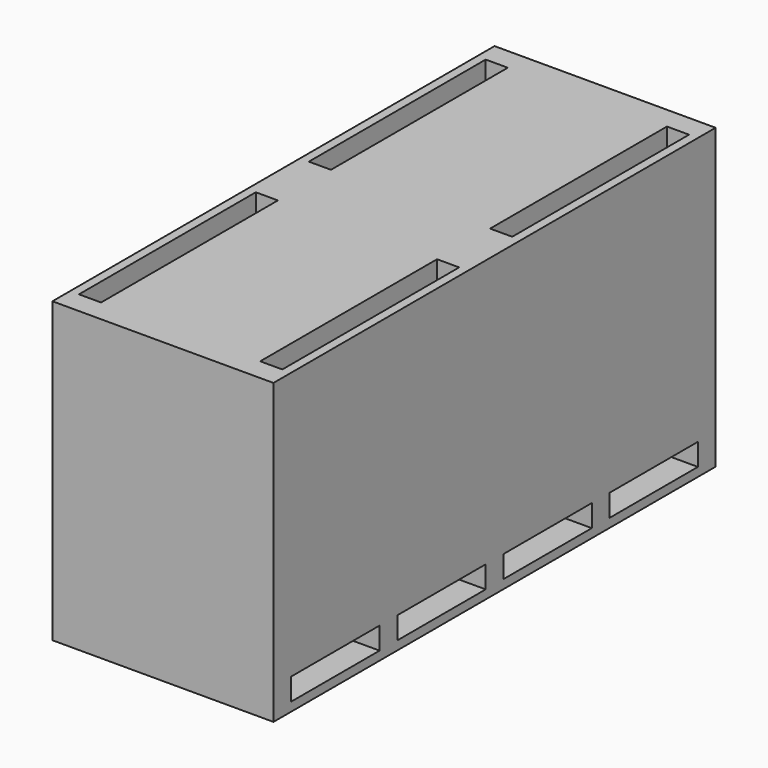
from build123d import *

# Parameters (mm, degrees)
SKETCH003_W            = 20
SKETCH003_H            = 27
PAD001_DEPTH           = 50
SKETCH004_W            = 10
SKETCH004_H            = 2
POCKET002_DEPTH        = 20.001
LINEARPATTERN002_COUNT = 4
LINEARPATTERN002_PITCH = 12
SKETCH005_W            = 2
SKETCH005_H            = 20
POCKET003_DEPTH        = 15
LINEARPATTERN003_COUNT = 2
LINEARPATTERN003_PITCH = 26


with BuildPart() as part:
    # Sketch003 (on ShapeBinder) → Pad001 (new body)
    with BuildSketch(Plane(origin=(0, 0, 0), x_dir=(-1, 0, 0), z_dir=(0, 1, 0))):
        with Locations((-15.8, 19.3)):
            Rectangle(SKETCH003_W, SKETCH003_H)
    extrude(amount=PAD001_DEPTH)

    # Sketch004 (on Face2 of Pad001) → Pocket002 (cut, through all)
    with BuildSketch(Plane(origin=(5.8, 0, 0), x_dir=(0, -1, 0), z_dir=(-1, 0, 0))):
        with Locations((-7, 7.6)):
            Rectangle(SKETCH004_W, SKETCH004_H)
    pocket002 = extrude(amount=-POCKET002_DEPTH, mode=Mode.SUBTRACT)

    # LinearPattern002: Pocket002 ×4
    with Locations(*[(0, i * LINEARPATTERN002_PITCH, 0) for i in range(1, LINEARPATTERN002_COUNT)]):
        add(pocket002, mode=Mode.SUBTRACT)

    # Sketch005 (on Face1 of LinearPattern002) → Pocket003 (cut)
    with BuildSketch(Plane.XY.offset(32.8)):
        with Locations((7.6, 12)):
            Rectangle(SKETCH005_W, SKETCH005_H)
        with Locations((24, 12)):
            Rectangle(SKETCH005_W, SKETCH005_H)
    pocket003 = extrude(amount=-POCKET003_DEPTH, mode=Mode.SUBTRACT)

    # LinearPattern003: Pocket003 ×2
    with Locations(*[(0, i * LINEARPATTERN003_PITCH, 0) for i in range(1, LINEARPATTERN003_COUNT)]):
        add(pocket003, mode=Mode.SUBTRACT)


solid = part.part
